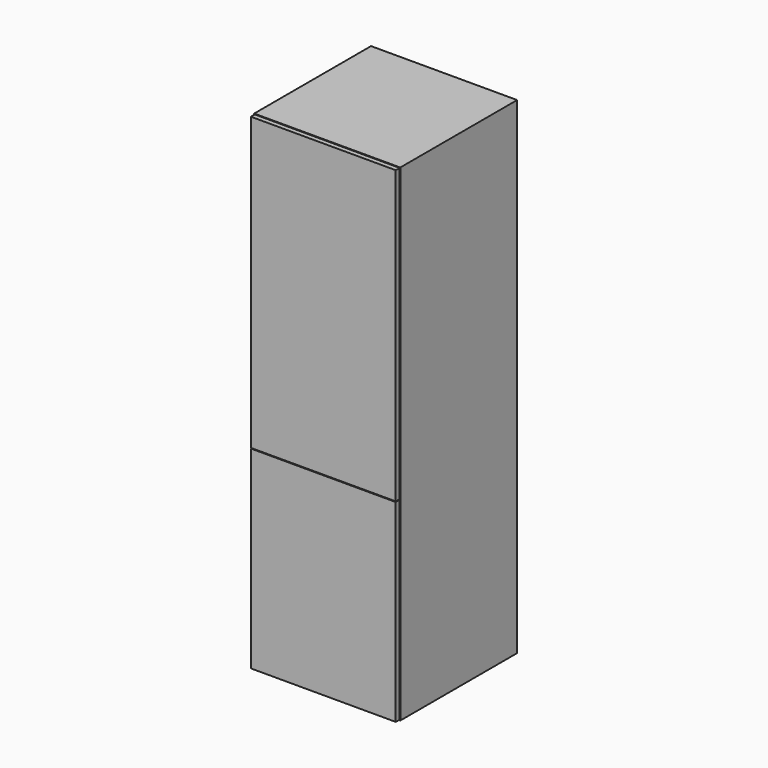
from build123d import *

# Parameters (mm, degrees)
F3_W      = 600
F3_H      = 600
F4_DEPTH  = 2000
F5_W      = 560
F5_H      = 1180
F5_H_2    = 760
F6_DEPTH  = 580
F9_W      = 600
F9_H      = 2000
F10_DEPTH = 20
F11_W     = 595
F11_H     = 795
F11_H_2   = 1197.5
F12_DEPTH = 20
F13_DEPTH = 20


with BuildPart() as f4:
    # F3 (on offset) → F4 (new body)
    with BuildSketch(Plane.XY.offset(80)):
        with Locations((1406.3643673062, 850.4504614572)):
            Rectangle(F3_W, F3_H)
    extrude(amount=F4_DEPTH)

    # F5 (on face) → F6 (cut)
    with BuildSketch(Plane.XZ.offset(-550.4504614572)):
        with Locations((1406.3643673062, 1470)):
            Rectangle(F5_W, F5_H)
        with Locations((1406.3643673062, 480)):
            Rectangle(F5_W, F5_H_2)
    extrude(amount=-F6_DEPTH, mode=Mode.SUBTRACT)

    # F11 (on face) → F13 (cut)
    with BuildSketch(Plane.XZ.offset(-530.4504614572)):
        Polygon((1706.3643673062, 880), (1706.3643673062, 2080), (1106.3643673062, 2080), (1106.3643673062, 880), (1106.3643673062, 80), (1706.3643673062, 80), align=None)
        with Locations((1406.3643673062, 480)):
            Rectangle(F11_W, F11_H, mode=Mode.SUBTRACT)
        with Locations((1406.3643673062, 1478.75)):
            Rectangle(F11_W, F11_H_2, mode=Mode.SUBTRACT)
    extrude(amount=-F13_DEPTH, mode=Mode.SUBTRACT)


with BuildPart() as f10:
    # F9 (on offset) → F10 (new body)
    with BuildSketch(Plane.XZ.offset(-550.4504614572)):
        with Locations((1406.3643673062, 1080)):
            Rectangle(F9_W, F9_H)
    extrude(amount=F10_DEPTH)

    # F11 (on face) → F12 (cut)
    with BuildSketch(Plane.XZ.offset(-530.4504614572)):
        Polygon((1706.3643673062, 880), (1706.3643673062, 2080), (1106.3643673062, 2080), (1106.3643673062, 880), (1106.3643673062, 80), (1706.3643673062, 80), align=None)
        with Locations((1406.3643673062, 480)):
            Rectangle(F11_W, F11_H, mode=Mode.SUBTRACT)
        with Locations((1406.3643673062, 1478.75)):
            Rectangle(F11_W, F11_H_2, mode=Mode.SUBTRACT)
    extrude(amount=-F12_DEPTH, mode=Mode.SUBTRACT)


solid = Compound([f4.part, f10.part])
